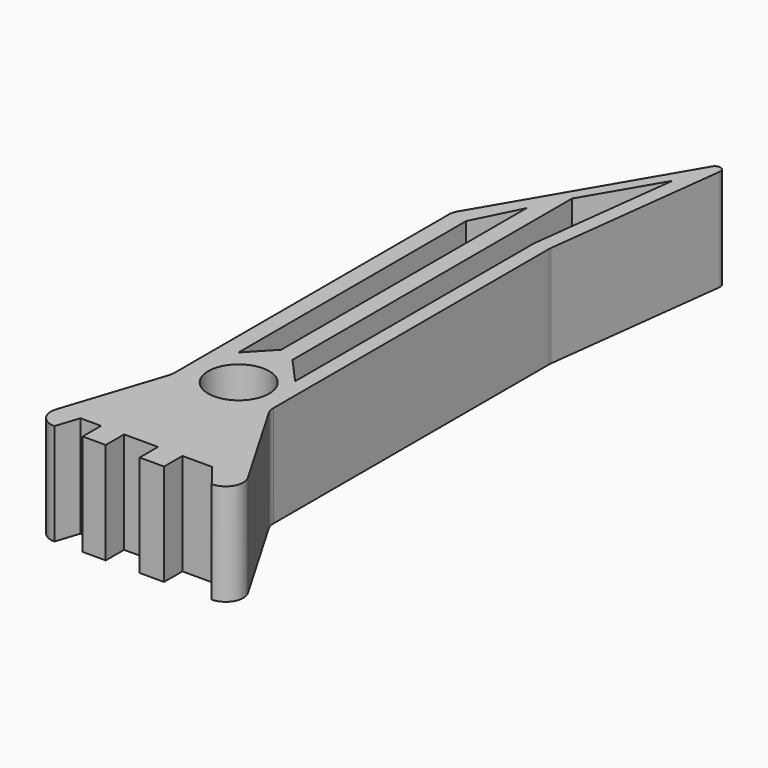
from build123d import *

# Parameters (mm, degrees)
F0_W     = 14.142123667
F0_H     = 50.8
F1_DEPTH = 14.732
F2_R     = 2.54
F3_R     = 0.79375
F4_R     = 4.4176924247
F4_W     = 4.9146201927
F4_H     = 3.3284204943
F5_DEPTH = 38.1


with BuildPart() as f1:
    # F0 (on Top) → F1 (new body)
    with BuildSketch(Plane.XY):
        Polygon((10.7273911178, 53.3604013813), (-7.1363440174, 22.8804013813), (7.0057796496, 22.8804013813), align=None)
        with Locations((-0.0652821839, -2.5195986187)):
            Rectangle(F0_W, F0_H)
        Polygon((7.0057796496, -27.9195986187), (-7.1363440174, -27.9195986187), (-13.0909229835, -46.1554975013), (17.6123739426, -46.1554975013), align=None)
        Polygon((7.0057796496, -27.9195986187), (-7.1363440174, -27.9195986187), (-13.0909229835, -46.1554975013), (17.6123739426, -46.1554975013), align=None)
    extrude(amount=F1_DEPTH)

    # F2
    f2_edges = [f1.edges().sort_by_distance(p)[0] for p in [
        (7.00578, -27.919599, 7.366),
        (7.00578, 22.880401, 7.366),
        (-13.090923, -46.155498, 7.366),
        (17.612374, -46.155498, 7.366),
        (-7.136344, 22.880401, 7.366),
        (-7.136344, -27.919599, 7.366),
    ]]
    fillet(f2_edges, radius=F2_R)

    # F3
    f3_edges = [f1.edges().sort_by_distance(p)[0] for p in [
        (10.727391, 53.360401, 7.366),
    ]]
    fillet(f3_edges, radius=F3_R)

    # F4 (on face) → F5 (cut)
    with BuildSketch(Plane.XY.offset(14.732)):
        with Locations((0, -24.7696824372)):
            Circle(F4_R)
        Polygon((-1.2388014392, 28.897959739), (-4.5963440174, 22.1909237022), (-4.5963440174, -19.0687216818), (-1.2388014392, -15.5301969498), align=None)
        Polygon((1.3100893161, 33.960372903), (1.3100893161, 28.550172903), (1.3100893161, -16.671693043), (4.8148863068, -20.562165355), (4.8148863068, 22.7259079205), (7.4699121839, 44.4705713353), align=None)
        Polygon((-8.5027228454, -42.827077007), (-9.5895539796, -46.1554975013), (-5.5043729953, -46.1554975013), (-5.5043729953, -42.827077007), align=None)
        with Locations((0.2948777983, -44.4912872541)):
            Rectangle(F4_W, F4_H)
        Polygon((6.2907133251, -42.827077007), (6.2907133251, -46.1554975013), (13.1966339, -46.1554975013), (10.6155779213, -42.827077007), align=None)
    extrude(amount=-F5_DEPTH, mode=Mode.SUBTRACT)


solid = f1.part
